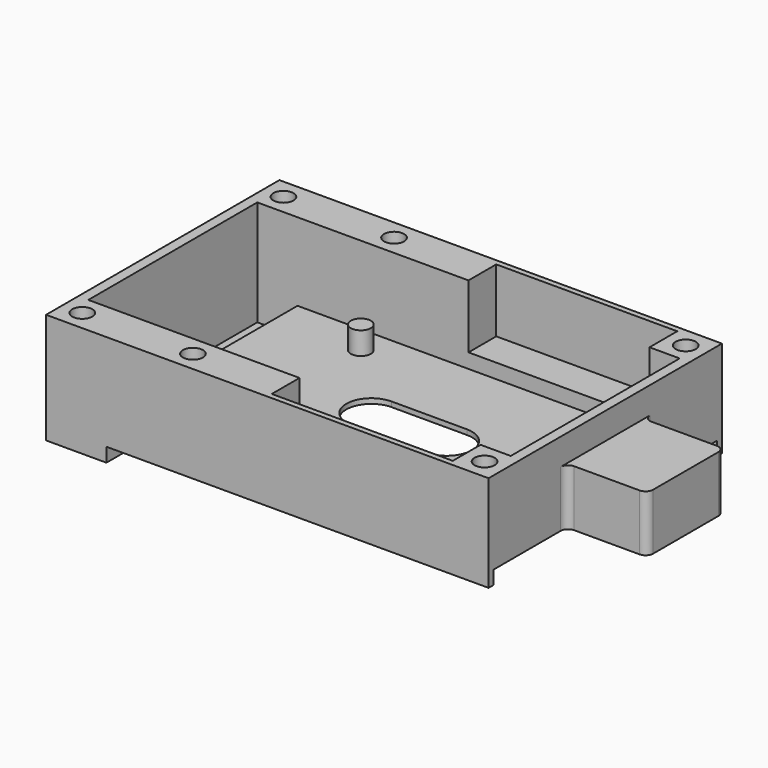
from build123d import *

# Parameters (mm, degrees)
PAD_DEPTH       = 29
POCKET_DEPTH    = 21
SKETCH003_R     = 2
SKETCH003_R_2   = 4
PAD002_DEPTH    = 4.5
SKETCH007_R     = 2
POCKET002_DEPTH = 16.5
SKETCH008_W     = 36
SKETCH008_H     = 55.8
POCKET003_DEPTH = 12.6
POCKET004_DEPTH = 1
PAD005_DEPTH    = 11.2
SKETCH011_W     = 8
SKETCH011_H     = 16
POCKET005_DEPTH = 16
PAD013_DEPTH    = 2.7


with BuildPart() as part:
    # Sketch → Pad (new body, symmetric)
    with BuildSketch(Plane.XZ):
        Polygon((-32, 0), (44, 0), (44, 16.5), (-44, 16.5), (-44, -5.5), (-32, -5.5), align=None)
    extrude(amount=PAD_DEPTH, both=True)

    # Sketch002 → Pocket (cut, symmetric)
    with BuildSketch(Plane.XZ):
        Polygon((-42, 16.5), (-42, -4.5), (-34, -4.5), (-34, 1), (42, 1), (42, 16.5), align=None)
    extrude(amount=POCKET_DEPTH, both=True, mode=Mode.SUBTRACT)

    # Sketch003 (on DatumPlane) → Pad002 (join)
    with BuildSketch(Plane.XY.offset(1)):
        with Locations((-17, 15.5)):
            Circle(SKETCH003_R)
        with Locations((-6, -15.5)):
            Circle(SKETCH003_R_2)
        with Locations((-6, -15.5)):
            Circle(SKETCH003_R, mode=Mode.SUBTRACT)
        with Locations((-28, -15.5)):
            Circle(SKETCH003_R_2)
        with Locations((-28, -15.5)):
            Circle(SKETCH003_R, mode=Mode.SUBTRACT)
    extrude(amount=PAD002_DEPTH)

    # Sketch007 (on DatumPlane) → Pocket002 (cut)
    with BuildSketch(Plane.XY.offset(1)):
        with Locations((-40, 25)):
            Circle(SKETCH007_R)
        with Locations((-18, 25)):
            Circle(SKETCH007_R)
        with Locations((40, 25)):
            Circle(SKETCH007_R)
        with Locations((40, -25)):
            Circle(SKETCH007_R)
        with Locations((-40, -25)):
            Circle(SKETCH007_R)
        with Locations((-18, -25)):
            Circle(SKETCH007_R)
    extrude(amount=POCKET002_DEPTH, mode=Mode.SUBTRACT)

    # Sketch008 (on DatumPlane) → Pocket003 (cut)
    with BuildSketch(Plane.XY.offset(16.5)):
        with Locations((18, 0)):
            Rectangle(SKETCH008_W, SKETCH008_H)
    extrude(amount=-POCKET003_DEPTH, mode=Mode.SUBTRACT)

    # Sketch009 (on DatumPlane) → Pocket004 (cut)
    with BuildSketch(Plane.XY.offset(1)):
        with BuildLine():
            ThreePointArc((-2.5, 5), (-7.5, 0), (-2.5, -5))
            Line((-2.5, -5), (12.5, -5))
            ThreePointArc((12.5, -5), (17.5, 0), (12.5, 5))
            Line((12.5, 5), (-2.5, 5))
        make_face()
    extrude(amount=-POCKET004_DEPTH, mode=Mode.SUBTRACT)

    # Sketch010 → Pad005 (join)
    with BuildSketch(Plane.XY):
        with BuildLine():
            Line((45.5, 9.6), (58.5, 9.6))
            ThreePointArc((60, 8.1), (59.56066, 9.16066), (58.5, 9.6))
            Line((60, 8.1), (60, -8.1))
            ThreePointArc((58.5, -9.6), (59.56066, -9.16066), (60, -8.1))
            Line((58.5, -9.6), (45.5, -9.6))
            ThreePointArc((45.5, -9.6), (44.43934, -10.03934), (44, -11.1))
            Line((44, 11.1), (44, -11.1))
            ThreePointArc((44, 11.1), (44.43934, 10.03934), (45.5, 9.6))
        make_face()
    extrude(amount=PAD005_DEPTH)

    # Sketch011 (on DatumPlane) → Pocket005 (cut)
    with BuildSketch(Plane(origin=(42, 0, 0), x_dir=(0, 0, -1), z_dir=(1, 0, 0))):
        with Locations((-5, 0)):
            Rectangle(SKETCH011_W, SKETCH011_H)
    extrude(amount=POCKET005_DEPTH, mode=Mode.SUBTRACT)

    # Sketch019 → Pad013 (join)
    with BuildSketch(Plane.XY):
        Polygon((-32, 27.8), (44, 27.8), (44, 29), (-32.4, 29), (-32.4, -29), (44, -29), (44, -27.8), (-32, -27.8), align=None)
    extrude(amount=-PAD013_DEPTH)


with BuildPart() as part_1:
    # Body placement: moved
    add(part.part.moved(Location((0, 0, 46.2))))


solid = part_1.part
